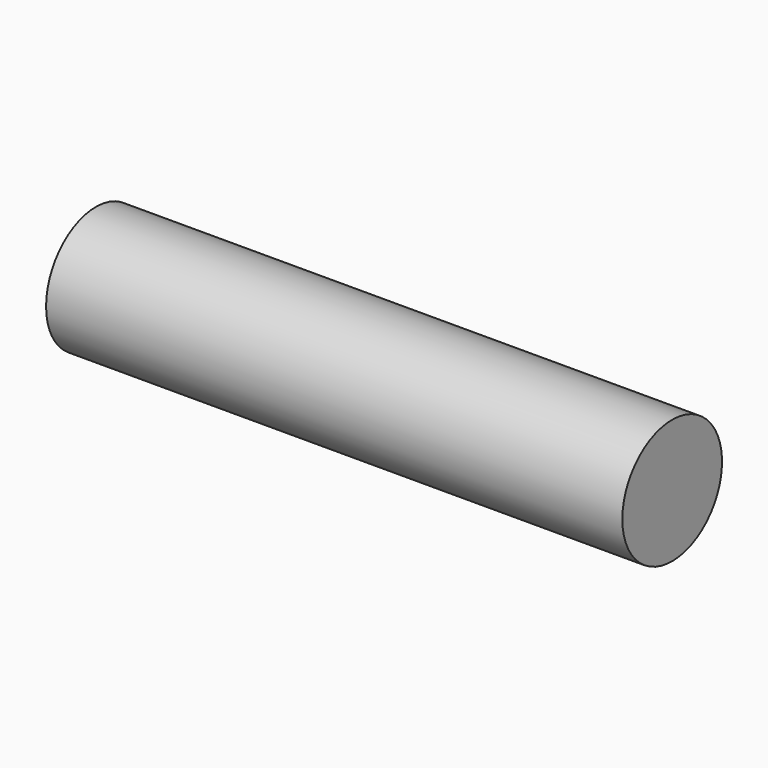
from build123d import *

# Parameters (mm, degrees)
F1_DEPTH = 18.5


with BuildPart() as f1:
    # F0 (on Right) → F1 (new body, symmetric)
    with BuildSketch(Plane.YZ):
        with BuildLine():
            Line((-4, 0), (4, 0))
            ThreePointArc((4, 0), (0, 4), (-4, 0))
        make_face()
        with BuildLine():
            ThreePointArc((-4, 0), (0, -4), (4, 0))
            Line((4, 0), (-4, 0))
        make_face()
    extrude(amount=F1_DEPTH, both=True)


solid = f1.part
